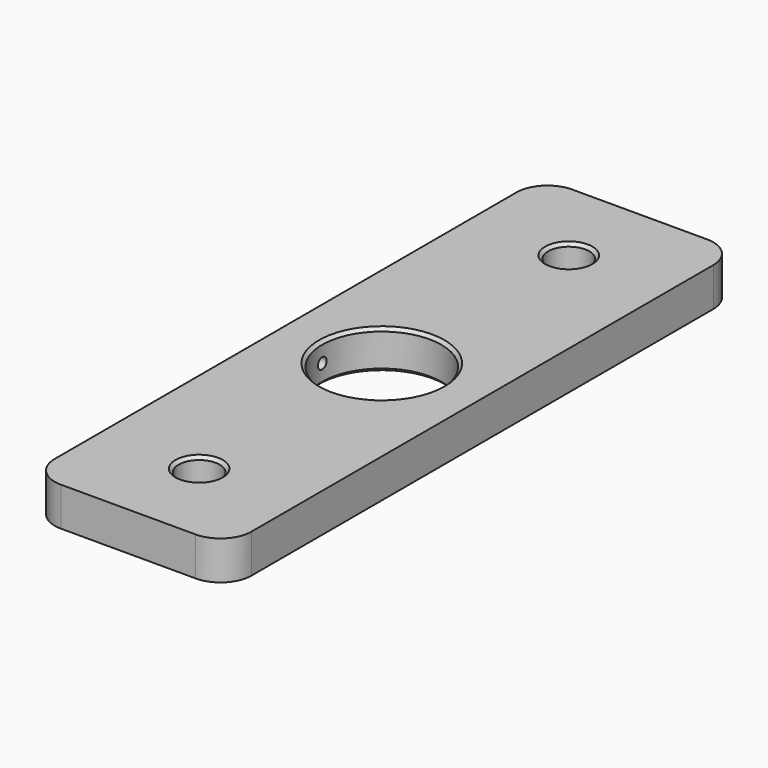
from build123d import *

# Parameters (mm, degrees)
F0_W     = 32.258
F0_H     = 104.7641299665
F0_R     = 3.3734375
F0_R_2   = 9.779
F1_DEPTH = 6.35
F2_R     = 0.889
F3_DEPTH = 6.3914930276
F4_R     = 5.08
F5_SIZE  = 0.508


with BuildPart() as f1:
    # F0 (on Top) → F1 (new body)
    with BuildSketch(Plane.XY):
        with Locations((0, 0.4591811448)):
            Rectangle(F0_W, F0_H)
        with Locations((0, -37.4124510398)):
            Circle(F0_R, mode=Mode.SUBTRACT)
        Circle(F0_R_2, mode=Mode.SUBTRACT)
        with Locations((0, 38.3165156772)):
            Circle(F0_R, mode=Mode.SUBTRACT)
    extrude(amount=F1_DEPTH)

    # F2 (on face) → F3 (cut, through all)
    with BuildSketch(Plane(origin=(-16.129, 0, 0), x_dir=(0, -1, 0), z_dir=(-1, 0, 0))):
        with Locations((0, 3.175)):
            Circle(F2_R)
    extrude(amount=-F3_DEPTH, mode=Mode.SUBTRACT)

    # F4
    f4_edges = [f1.edges().sort_by_distance(p)[0] for p in [
        (-16.129, 52.841246, 3.175),
        (-16.129, -51.922884, 3.175),
        (16.129, -51.922884, 3.175),
        (16.129, 52.841246, 3.175),
    ]]
    fillet(f4_edges, radius=F4_R)

    # F5
    f5_edges = [f1.edges().sort_by_distance(p)[0] for p in [
        (-3.373437, 38.316516, 6.35),
        (-3.373437, 38.316516, 0),
        (-9.779, 0, 0),
        (-3.373437, -37.412451, 0),
        (-3.373437, -37.412451, 6.35),
        (-9.779, 0, 6.35),
    ]]
    chamfer(f5_edges, length=F5_SIZE)


solid = f1.part
